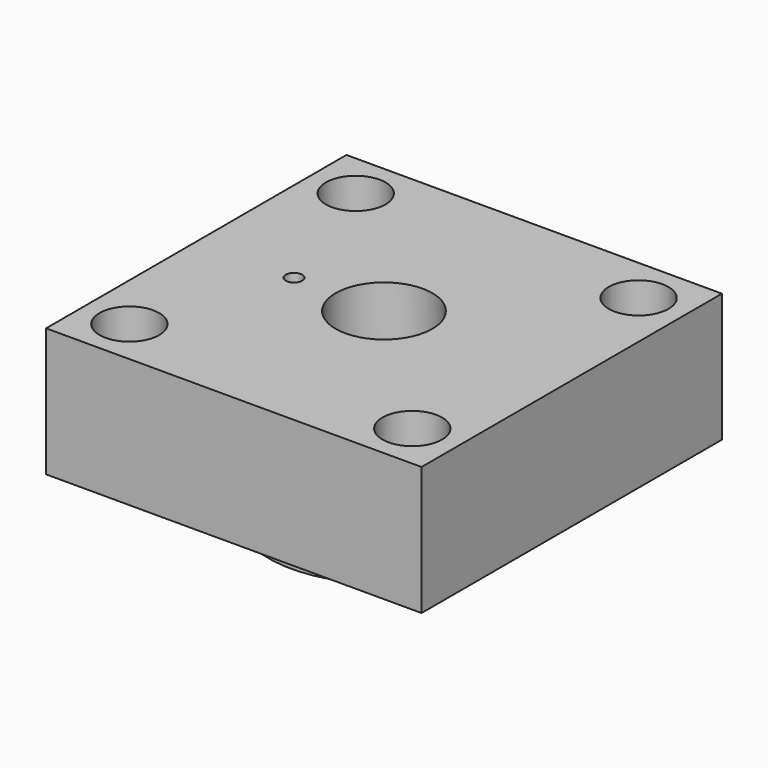
from build123d import *

# Parameters (mm, degrees)
F0_W      = 18.542
F0_H      = 18.542
F1_DEPTH  = 8.89
F2_R      = 1.0287
F3_DEPTH  = 8.891
F5_D      = 3.175
F5_DEPTH  = 4.7752
F5_TIP    = 0.9538662327
F7_D      = 4.7752
F7_DEPTH  = 3.175
F7_TIP    = 1.434614814
F8_R      = 0.4064
F9_DEPTH  = 3.175
F10_R     = 1.4732
F11_DEPTH = 8.891
F12_W     = 18.542
F12_H     = 18.542
F12_R     = 5.715
F13_DEPTH = 2.54
F15_D     = 4.0386
F15_DEPTH = 5.55625
F15_TIP   = 1.213317848


with BuildPart() as f1:
    # F0 (on Top) → F1 (new body)
    with BuildSketch(Plane.XY):
        Rectangle(F0_W, F0_H)
    extrude(amount=F1_DEPTH)

    # F2 (on face) → F3 (cut, through all)
    with BuildSketch(Plane.XY.offset(8.89)):
        Circle(F2_R)
    extrude(amount=-F3_DEPTH, mode=Mode.SUBTRACT)

    # F5
    with Locations(Plane.XY.offset(8.89)):
        with Locations((0, 0)):
            Hole(F5_D / 2, depth=F5_DEPTH)
            with Locations((0, 0, -(F5_DEPTH + F5_TIP / 2))):  # 118° drill point
                Cone(0, F5_D / 2, F5_TIP, mode=Mode.SUBTRACT)

    # F7
    with Locations(Plane.XY.offset(8.89)):
        with Locations((0, 0)):
            Hole(F7_D / 2, depth=F7_DEPTH)
            with Locations((0, 0, -(F7_DEPTH + F7_TIP / 2))):  # 118° drill point
                Cone(0, F7_D / 2, F7_TIP, mode=Mode.SUBTRACT)

    # F8 (on face) → F9 (cut)
    with BuildSketch(Plane.XY.offset(8.89)):
        with Locations((-4.445, 0)):
            Circle(F8_R)
    extrude(amount=-F9_DEPTH, mode=Mode.SUBTRACT)

    # F10 (on face) → F11 (cut, through all)
    with BuildSketch(Plane.XY.offset(8.89)):
        with Locations((-6.985, 6.985)):
            Circle(F10_R)
        with Locations((-6.985, -6.985)):
            Circle(F10_R)
        with Locations((6.985, 6.985)):
            Circle(F10_R)
        with Locations((6.985, -6.985)):
            Circle(F10_R)
    extrude(amount=-F11_DEPTH, mode=Mode.SUBTRACT)

    # F12 (on face) → F13 (cut)
    with BuildSketch(Plane(origin=(0, 0, 0), x_dir=(1, 0, 0), z_dir=(0, 0, -1))):
        Rectangle(F12_W, F12_H)
        Circle(F12_R, mode=Mode.SUBTRACT)
    extrude(amount=-F13_DEPTH, mode=Mode.SUBTRACT)

    # F15
    with Locations(Plane(origin=(-9.271, 0, 0), x_dir=(0, -1, 0), z_dir=(-1, 0, 0))):
        with Locations((0, 5.715)):
            Hole(F15_D / 2, depth=F15_DEPTH)
            with Locations((0, 0, -(F15_DEPTH + F15_TIP / 2))):  # 118° drill point
                Cone(0, F15_D / 2, F15_TIP, mode=Mode.SUBTRACT)


solid = f1.part
